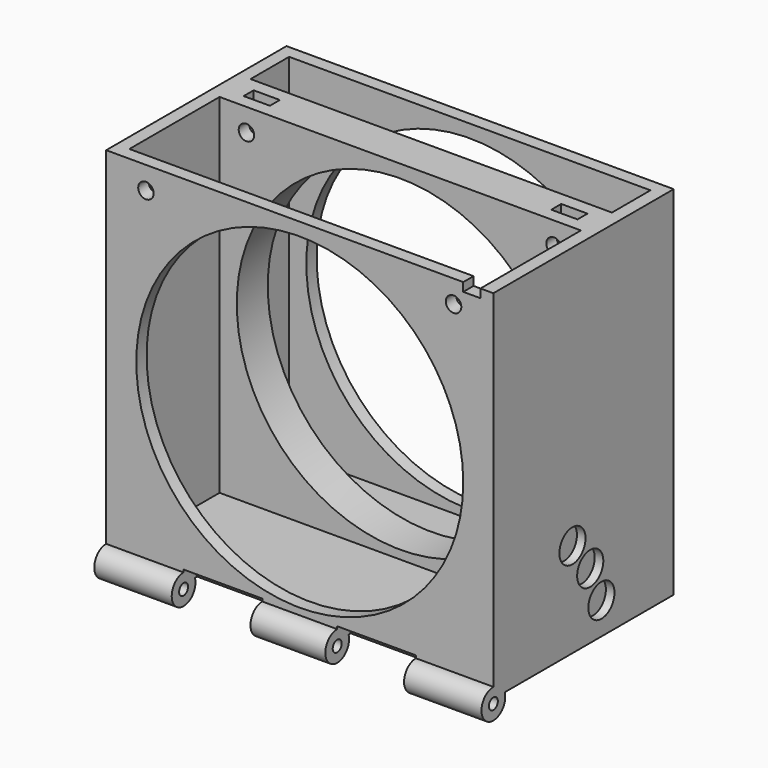
from build123d import *

# Parameters (mm, degrees)
PAD_DEPTH            = 45
SKETCH001_R          = 38
POCKET_DEPTH         = 52.401
SKETCH005_R          = 1.8
POCKET001_DEPTH      = 38.2
SKETCH013_W          = 3
SKETCH013_H          = 26.2
PAD006_DEPTH         = 81
SKETCH014_W          = 3
SKETCH014_H          = 11.2
PAD007_DEPTH         = 81
SKETCH015_R          = 3.45
PAD008_DEPTH         = 45
SKETCH016_R          = 1.3
POCKET005_DEPTH      = 45
SKETCH017_W          = 18.3
SKETCH017_H          = 4.05
SKETCH061_R          = 3.8
POCKET021_DEPTH      = 2
SKETCH062_R          = 2
POCKET022_DEPTH      = 84.001
SKETCH064_W          = 4
SKETCH064_H          = 2
POCKET023_DEPTH      = 3
POCKET024_DEPTH      = 45.001
POCKET024_DEPTH_BACK = 45.001
POCKET029_DEPTH      = 2.9


with BuildPart() as part:
    # Sketch → Pad (new body, symmetric)
    with BuildSketch(Plane.YZ):
        Polygon((0, 84), (3, 84), (3, 3), (29.2, 3), (29.2, 84), (38.2, 84), (38.2, 3), (49.4, 3), (49.4, 84), (52.4, 84), (52.4, 0), (0, 0), align=None)
    extrude(amount=PAD_DEPTH, both=True)

    # Sketch001 → Pocket (cut, through all)
    with BuildSketch(Plane.XZ):
        with Locations((0, 43)):
            Circle(SKETCH001_R)
    extrude(amount=-POCKET_DEPTH, mode=Mode.SUBTRACT)

    # Sketch005 → Pocket001 (cut)
    with BuildSketch(Plane.XZ):
        with Locations((-35.75, 78.75)):
            Circle(SKETCH005_R)
        with Locations((35.75, 78.75)):
            Circle(SKETCH005_R)
    extrude(amount=-POCKET001_DEPTH, mode=Mode.SUBTRACT)

    # Sketch013 (on DatumPlane) → Pad006 (join)
    with BuildSketch(Plane.XY.offset(3)):
        with Locations((-43.5, 16.1)):
            Rectangle(SKETCH013_W, SKETCH013_H)
        with Locations((43.5, 16.1)):
            Rectangle(SKETCH013_W, SKETCH013_H)
    extrude(amount=PAD006_DEPTH)

    # Sketch014 (on DatumPlane) → Pad007 (join)
    with BuildSketch(Plane.XY.offset(3)):
        with Locations((-43.5, 43.8)):
            Rectangle(SKETCH014_W, SKETCH014_H)
        with Locations((43.5, 43.8)):
            Rectangle(SKETCH014_W, SKETCH014_H)
    extrude(amount=PAD007_DEPTH)

    # Sketch015 → Pad008 (join, symmetric)
    with BuildSketch(Plane.YZ):
        Circle(SKETCH015_R)
    extrude(amount=PAD008_DEPTH, both=True)

    # Sketch016 → Pocket005 (cut, symmetric)
    with BuildSketch(Plane.YZ):
        Circle(SKETCH016_R)
    extrude(amount=POCKET005_DEPTH, both=True, mode=Mode.SUBTRACT)

    # Sketch017 → Groove001 (revolve, cut)
    with BuildSketch(Plane.XZ):
        with Locations((-17.85, 2.025)):
            Rectangle(SKETCH017_W, SKETCH017_H)
        with Locations((17.85, 2.025)):
            Rectangle(SKETCH017_W, SKETCH017_H)
    revolve(axis=Axis((0, 0, 0), (1, 0, 0)), mode=Mode.SUBTRACT)

    # Sketch061 → Pocket021 (cut)
    with BuildSketch(Plane.YZ.offset(45)):
        with Locations((22.9809703886, 22.9809703886)):
            Circle(SKETCH061_R)
        with Locations((28.145825623, 16.25)):
            Circle(SKETCH061_R)
        with Locations((31.3925893544, 8.4116189658)):
            Circle(SKETCH061_R)
    extrude(amount=-POCKET021_DEPTH, mode=Mode.SUBTRACT)

    # Sketch062 → Pocket022 (cut, through all)
    with BuildSketch(Plane.XY):
        with Locations((33, 15)):
            Circle(SKETCH062_R)
    extrude(amount=POCKET022_DEPTH, mode=Mode.SUBTRACT)

    # Sketch064 → Pocket023 (cut)
    with BuildSketch(Plane.XZ):
        with Locations((40, 83)):
            Rectangle(SKETCH064_W, SKETCH064_H)
    extrude(amount=-POCKET023_DEPTH, mode=Mode.SUBTRACT)

    # Sketch065 → Pocket024 (cut, two sides)
    with BuildSketch(Plane.YZ) as pocket024_sk:
        with BuildLine():
            Line((3.45, 0), (52.4, 0))
            Line((52.4, 0), (52.4, 1))
            Line((52.4, 1), (3.3018933962, 1))
            ThreePointArc((3.45, 0), (3.4127724959, 0.5054541438), (3.3018933962, 1))
        make_face()
    extrude(amount=-POCKET024_DEPTH, mode=Mode.SUBTRACT)
    extrude(pocket024_sk.sketch, amount=POCKET024_DEPTH_BACK, mode=Mode.SUBTRACT)

    # Sketch070 (on DatumPlane) → Pocket029 (cut)
    with BuildSketch(Plane.XZ.offset(-32.2)):
        Polygon((-32.7, 76.989081679), (-32.7, 80.510918321), (-32.7, 84), (-38.8, 84), (-38.8, 80.510918321), (-38.8, 76.989081679), (-35.75, 75.2281633579), align=None)
        Polygon((38.8, 76.989081679), (38.8, 80.510918321), (38.8, 84), (32.7, 84), (32.7, 80.510918321), (32.7, 76.989081679), (35.75, 75.2281633579), align=None)
    extrude(amount=-POCKET029_DEPTH, mode=Mode.SUBTRACT)


solid = part.part
